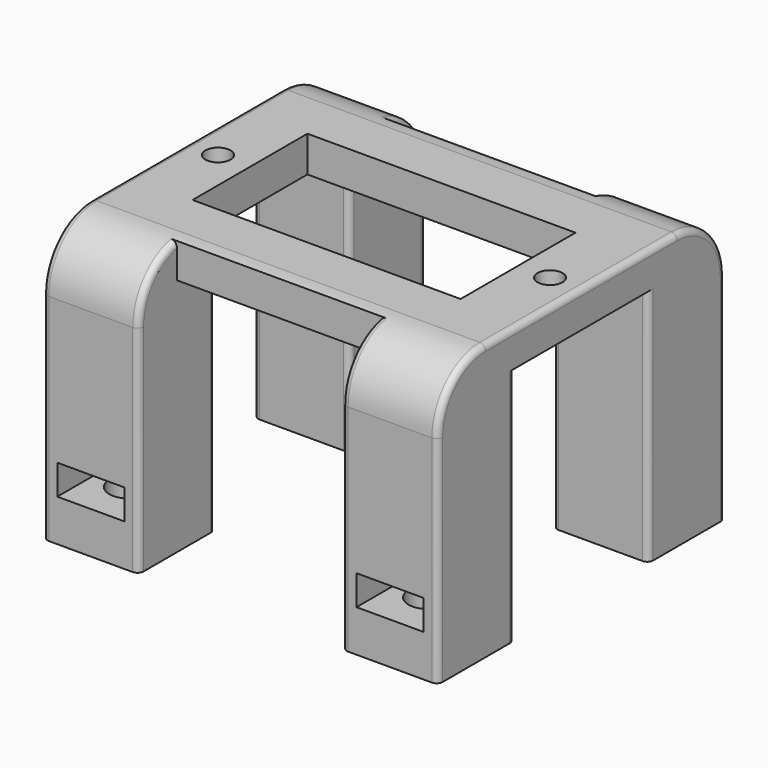
from build123d import *

# Parameters (mm, degrees)
F1_DEPTH = 23
F0_R     = 1.05
F0_W     = 22.4
F0_H     = 12
F2_DEPTH = 3
F4_D     = 3.3
F4_DEPTH = 12
F4_TIP   = 0.9914200214
F5_W     = 5.6
F5_H     = 2.5
F7_DEPTH = 6.8
F6_W     = 5.6
F6_H     = 2.5
F8_DEPTH = 6.8
F9_R     = 5
F10_R    = 0.5


with BuildPart() as f1:
    # F0 (on Top) → F1 (new body)
    with BuildSketch(Plane.XY):
        with BuildLine():
            Line((-10.925, 11), (-8.5, 11))
            Line((-8.5, 11), (-8.5, 15))
            Line((-8.5, 15), (-16.5, 15))
            Line((-16.5, 15), (-16.5, 11))
            Line((-16.5, 11), (-14.075, 11))
            ThreePointArc((-14.075, 11), (-12.5, 12.575), (-10.925, 11))
        make_face()
        with BuildLine():
            Line((-14.075, 11), (-10.925, 11))
            ThreePointArc((-10.925, 11), (-12.5, 12.575), (-14.075, 11))
        make_face()
        with BuildLine():
            ThreePointArc((-14.075, 11), (-12.5, 9.425), (-10.925, 11))
            Line((-10.925, 11), (-14.075, 11))
        make_face()
        with BuildLine():
            Line((-8.5, 7), (-8.5, 11))
            Line((-8.5, 11), (-10.925, 11))
            ThreePointArc((-10.925, 11), (-12.5, 9.425), (-14.075, 11))
            Line((-14.075, 11), (-16.5, 11))
            Line((-16.5, 11), (-16.5, 7))
            Line((-16.5, 7), (-8.5, 7))
        make_face()
    extrude(amount=-F1_DEPTH)



with BuildPart() as f1b:
    # F0 (on Top) → F1, piece 2 (new body)
    with BuildSketch(Plane.XY):
        with BuildLine():
            Line((14.075, 11), (16.5, 11))
            Line((16.5, 11), (16.5, 15))
            Line((16.5, 15), (8.5, 15))
            Line((8.5, 15), (8.5, 11))
            Line((8.5, 11), (10.925, 11))
            ThreePointArc((10.925, 11), (12.5, 12.575), (14.075, 11))
        make_face()
        with BuildLine():
            Line((10.925, 11), (14.075, 11))
            ThreePointArc((14.075, 11), (12.5, 12.575), (10.925, 11))
        make_face()
        with BuildLine():
            ThreePointArc((10.925, 11), (12.5, 9.425), (14.075, 11))
            Line((14.075, 11), (10.925, 11))
        make_face()
        with BuildLine():
            Line((8.5, 7), (16.5, 7))
            Line((16.5, 7), (16.5, 11))
            Line((16.5, 11), (14.075, 11))
            ThreePointArc((14.075, 11), (12.5, 9.425), (10.925, 11))
            Line((10.925, 11), (8.5, 11))
            Line((8.5, 11), (8.5, 7))
        make_face()
    extrude(amount=-F1_DEPTH)


with BuildPart() as f1c:
    # F0 (on Top) → F1, piece 3 (new body)
    with BuildSketch(Plane.XY):
        with BuildLine():
            Line((-10.925, -11), (-8.5, -11))
            Line((-8.5, -11), (-8.5, -7))
            Line((-8.5, -7), (-16.5, -7))
            Line((-16.5, -7), (-16.5, -11))
            Line((-16.5, -11), (-14.075, -11))
            ThreePointArc((-14.075, -11), (-12.5, -9.425), (-10.925, -11))
        make_face()
        with BuildLine():
            Line((-14.075, -11), (-10.925, -11))
            ThreePointArc((-10.925, -11), (-12.5, -9.425), (-14.075, -11))
        make_face()
        with BuildLine():
            ThreePointArc((-14.075, -11), (-12.5, -12.575), (-10.925, -11))
            Line((-10.925, -11), (-14.075, -11))
        make_face()
        with BuildLine():
            Line((-8.5, -15), (-8.5, -11))
            Line((-8.5, -11), (-10.925, -11))
            ThreePointArc((-10.925, -11), (-12.5, -12.575), (-14.075, -11))
            Line((-14.075, -11), (-16.5, -11))
            Line((-16.5, -11), (-16.5, -15))
            Line((-16.5, -15), (-8.5, -15))
        make_face()
    extrude(amount=-F1_DEPTH)


with BuildPart() as f1d:
    # F0 (on Top) → F1, piece 4 (new body)
    with BuildSketch(Plane.XY):
        with BuildLine():
            Line((10.925, -11), (14.075, -11))
            ThreePointArc((14.075, -11), (12.5, -9.425), (10.925, -11))
        make_face()
        with BuildLine():
            ThreePointArc((10.925, -11), (12.5, -12.575), (14.075, -11))
            Line((14.075, -11), (10.925, -11))
        make_face()
        with BuildLine():
            Line((14.075, -11), (16.5, -11))
            Line((16.5, -11), (16.5, -7))
            Line((16.5, -7), (8.5, -7))
            Line((8.5, -7), (8.5, -11))
            Line((8.5, -11), (10.925, -11))
            ThreePointArc((10.925, -11), (12.5, -9.425), (14.075, -11))
        make_face()
        with BuildLine():
            Line((16.5, -15), (16.5, -11))
            Line((16.5, -11), (14.075, -11))
            ThreePointArc((14.075, -11), (12.5, -12.575), (10.925, -11))
            Line((10.925, -11), (8.5, -11))
            Line((8.5, -11), (8.5, -15))
            Line((8.5, -15), (16.5, -15))
        make_face()
    extrude(amount=-F1_DEPTH)


with BuildPart() as f1_1:
    add(f1.part)

    add(f1b.part)  # F2 merges F1b

    add(f1c.part)  # F2 merges F1c

    add(f1d.part)  # F2 merges F1d
    # F0 (on Top) → F2 (join)
    with BuildSketch(Plane.XY):
        Polygon((8.5, -7), (16.5, -7), (16.5, 7), (8.5, 7), (8.5, 11), (-8.5, 11), (-8.5, 7), (-16.5, 7), (-16.5, -7), (-8.5, -7), (-8.5, -11), (8.5, -11), align=None)
        with Locations((-13.875, 0)):
            Circle(F0_R, mode=Mode.SUBTRACT)
        Rectangle(F0_W, F0_H, mode=Mode.SUBTRACT)
        with Locations((13.875, 0)):
            Circle(F0_R, mode=Mode.SUBTRACT)
    extrude(amount=-F2_DEPTH)

    # F4
    with Locations(Plane(origin=(0, 0, -23), x_dir=(1, 0, 0), z_dir=(0, 0, -1))):
        with Locations((-12.5, 11), (12.5, 11), (-12.5, -11), (12.5, -11)):
            Hole(F4_D / 2, depth=F4_DEPTH)
            with Locations((0, 0, -(F4_DEPTH + F4_TIP / 2))):  # 118° drill point
                Cone(0, F4_D / 2, F4_TIP, mode=Mode.SUBTRACT)

    # F5 (on face) → F7 (cut)
    with BuildSketch(Plane.XZ.offset(15)):
        with Locations((-12.5, -18.25)):
            Rectangle(F5_W, F5_H)
        with Locations((12.5, -18.25)):
            Rectangle(F5_W, F5_H)
    extrude(amount=-F7_DEPTH, mode=Mode.SUBTRACT)

    # F6 (on face) → F8 (cut)
    with BuildSketch(Plane(origin=(0, 15, 0), x_dir=(-1, 0, 0), z_dir=(0, 1, 0))):
        with Locations((-12.5, -18.25)):
            Rectangle(F6_W, F6_H)
        with Locations((12.5, -18.25)):
            Rectangle(F6_W, F6_H)
    extrude(amount=-F8_DEPTH, mode=Mode.SUBTRACT)

    # F9
    f9_edges = [f1_1.edges().sort_by_distance(p)[0] for p in [
        (12.5, 15, 0),
        (-12.5, -15, 0),
    ]]
    fillet(f9_edges, radius=F9_R)

    # F10
    f10_edges = [f1_1.edges().sort_by_distance(p)[0] for p in [
        (16.5, -15, -14),
        (16.5, -7, -13),
        (-8.5, -15, -14),
        (16.5, 7, -13),
        (-16.5, 15, -14),
        (-8.5, 15, -14),
        (8.5, 15, -14),
        (8.5, -7, -13),
        (8.5, 7, -13),
        (-8.5, 7, -13),
        (-8.5, -7, -13),
        (-16.5, 7, -13),
        (-16.5, -7, -13),
        (8.5, -15, -14),
    ]]
    fillet(f10_edges, radius=F10_R)


solid = f1_1.part
